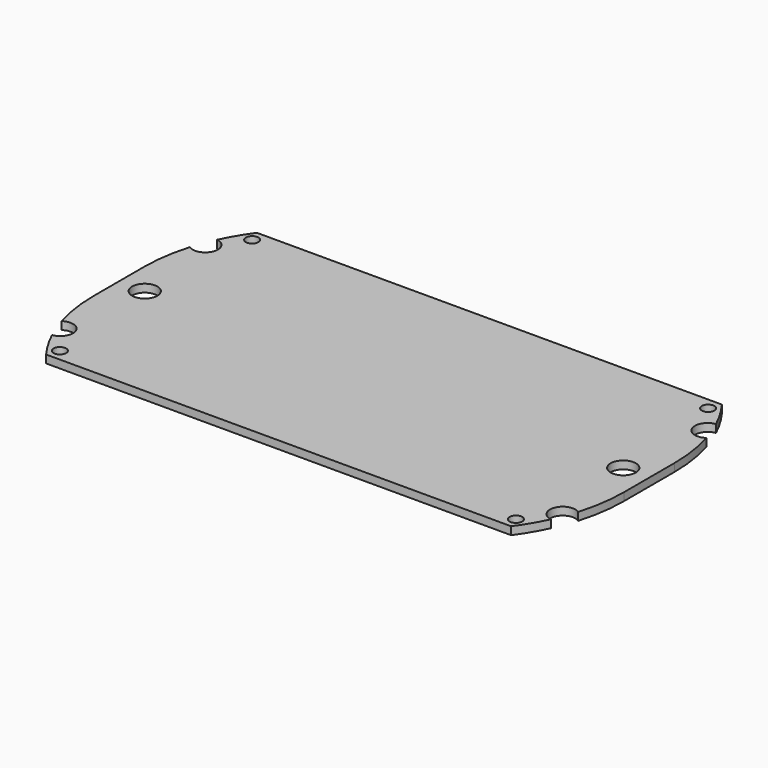
from build123d import *

# Parameters (mm, degrees)
F0_R     = 0.2
F0_R_2   = 0.4
F1_DEPTH = 0.25


with BuildPart() as f1:
    # F0 (on Top) → F1 (new body)
    with BuildSketch(Plane.XY):
        with BuildLine():
            Line((7.371942, 4.058169), (-7.379802, 4.058169))
            ThreePointArc((-7.379802, 4.058169), (-7.671166, 3.617507), (-7.917847, 3.150362))
            ThreePointArc((-7.917847, 3.150362), (-7.595977, 2.608907), (-8.196421, 2.418537))
            ThreePointArc((-8.196421, 2.418537), (-8.365283, 1.656565), (-8.421969, 0.878169))
            Line((-8.421969, 0.878169), (-8.421969, -0.121831))
            Line((-8.421969, -0.121831), (-8.421969, -1.121831))
            ThreePointArc((-8.421969, -1.121831), (-8.365283, -1.900228), (-8.196421, -2.6622))
            ThreePointArc((-8.196421, -2.6622), (-7.595977, -2.85257), (-7.917847, -3.394025))
            ThreePointArc((-7.917847, -3.394025), (-7.671166, -3.86117), (-7.379802, -4.301831))
            Line((-7.379802, -4.301831), (7.371942, -4.301831))
            ThreePointArc((7.371942, -4.301831), (7.663307, -3.86117), (7.909987, -3.394025))
            ThreePointArc((7.909987, -3.394025), (7.588117, -2.85257), (8.188562, -2.6622))
            ThreePointArc((8.188562, -2.6622), (8.357424, -1.900228), (8.41411, -1.121831))
            Line((8.41411, -1.121831), (8.41411, -0.121831))
            Line((8.41411, -0.121831), (8.41411, 0.878169))
            ThreePointArc((8.41411, 0.878169), (8.357424, 1.656565), (8.188562, 2.418537))
            ThreePointArc((8.188562, 2.418537), (7.588117, 2.608907), (7.909987, 3.150362))
            ThreePointArc((7.909987, 3.150362), (7.663307, 3.617507), (7.371942, 4.058169))
        make_face()
        with Locations((-7.236956, -3.932772)):
            Circle(F0_R, mode=Mode.SUBTRACT)
        with Locations((-7.593668, -0.121831)):
            Circle(F0_R_2, mode=Mode.SUBTRACT)
        with Locations((7.229097, -3.932772)):
            Circle(F0_R, mode=Mode.SUBTRACT)
        with Locations((7.585808, -0.121831)):
            Circle(F0_R_2, mode=Mode.SUBTRACT)
        with Locations((-7.236956, 3.689109)):
            Circle(F0_R, mode=Mode.SUBTRACT)
        with Locations((7.229097, 3.689109)):
            Circle(F0_R, mode=Mode.SUBTRACT)
    extrude(amount=F1_DEPTH)


solid = f1.part
